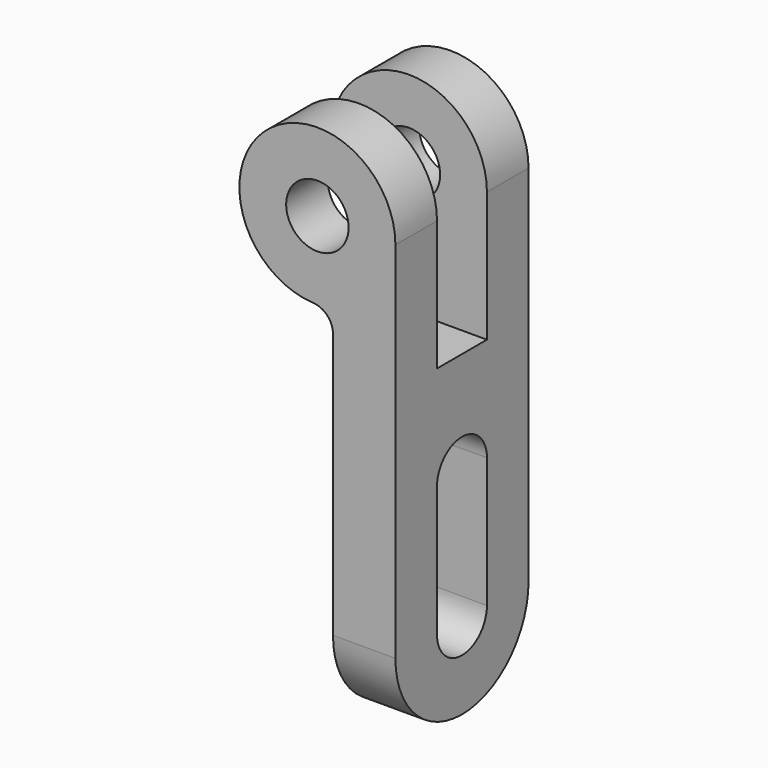
from build123d import *

# Parameters (mm, degrees)
F0_R     = 6
F1_DEPTH = 32
F2_W     = 12
F2_H     = 25
F2_H_2   = 15
F3_DEPTH = 30.001


with BuildPart() as f1:
    # F0 (on Front) → F1 (new body)
    with BuildSketch(Plane.XZ):
        with BuildLine():
            Line((15, -86), (15, 0))
            ThreePointArc((15, 0), (-10.323708, 10.882144), (-0.789474, -14.97921))
            ThreePointArc((-0.789474, -14.97921), (1.901905, -16.220677), (3, -18.973666))
            Line((3, -18.973666), (3, -86))
            Line((3, -86), (15, -86))
        make_face()
        Circle(F0_R, mode=Mode.SUBTRACT)
    extrude(amount=F1_DEPTH)

    # F2 (on face) → F3 (cut, through all)
    with BuildSketch(Plane.YZ.offset(15)):
        with BuildLine():
            Line((-22, -45), (-22, -70))
            ThreePointArc((-22, -70), (-16, -76), (-10, -70))
            Line((-10, -70), (-10, -45))
            ThreePointArc((-10, -45), (-16, -39), (-22, -45))
        make_face()
        with Locations((-16, -12.5)):
            Rectangle(F2_W, F2_H)
        with BuildLine():
            ThreePointArc((-16, -86), (-27.313708, -81.313708), (-32, -70))
            Line((-32, -70), (-32, -86))
            Line((-32, -86), (-16, -86))
        make_face()
        with BuildLine():
            Line((0, -86), (0, -70))
            ThreePointArc((0, -70), (-4.686292, -81.313708), (-16, -86))
            Line((-16, -86), (0, -86))
        make_face()
        with Locations((-16, 7.5)):
            Rectangle(F2_W, F2_H_2)
    extrude(amount=-F3_DEPTH, mode=Mode.SUBTRACT)


solid = f1.part
